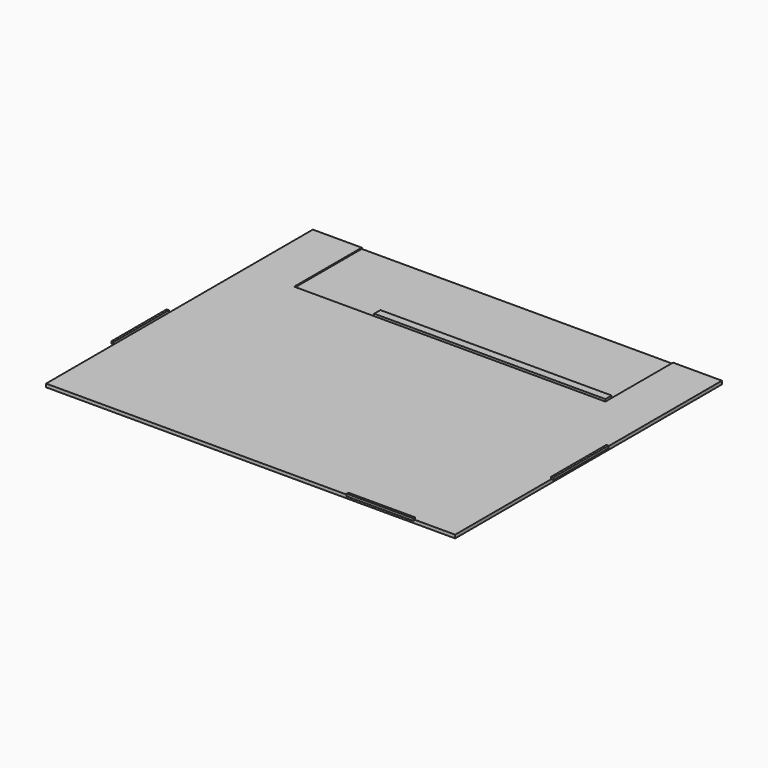
from build123d import *

# Parameters (mm, degrees)
F0_W     = 4673.6
F0_H     = 3810
F1_DEPTH = 25.4
F3_DEPTH = 12.7
F4_W     = 2641.6
F4_H     = 88.9
F5_DEPTH = 25.4
F6_W     = 25.4
F6_H     = 787.4
F7_DEPTH = 25.4
F8_W     = 25.4
F8_H     = 787.4
F8_W_2   = 762
F8_H_2   = 25.4
F9_DEPTH = 25.4


with BuildPart() as f1:
    # F0 (on Top) → F1 (new body)
    with BuildSketch(Plane.XY):
        with Locations((2336.8, 1905)):
            Rectangle(F0_W, F0_H)
    extrude(amount=F1_DEPTH)

    # F2 (on face) → F3 (join)
    with BuildSketch(Plane.XY.offset(25.4)):
        Polygon((558.8, 2844.8), (558.8, 3810), (0, 3810), (0, 0), (4673.6, 0), (4673.6, 3810), (4114.8, 3810), (4114.8, 2844.8), align=None)
    extrude(amount=F3_DEPTH)


with BuildPart() as f5:
    # F4 (on face) → F5 (new body)
    with BuildSketch(Plane.XY.offset(38.1)):
        with Locations((2794, 2889.25)):
            Rectangle(F4_W, F4_H)
    extrude(amount=F5_DEPTH)


with BuildPart() as f7:
    # F6 (on face) → F7 (new body)
    with BuildSketch(Plane.XY.offset(38.1)):
        with Locations((-12.7, 1358.9)):
            Rectangle(F6_W, F6_H)
    extrude(amount=F7_DEPTH)


with BuildPart() as f9:
    # F8 (on face) → F9 (new body)
    with BuildSketch(Plane.XY.offset(38.1)):
        with Locations((4686.3, 1765.3)):
            Rectangle(F8_W, F8_H)
        with Locations((3835.4, -12.7)):
            Rectangle(F8_W_2, F8_H_2)
    extrude(amount=F9_DEPTH)


solid = Compound([f1.part, f5.part, f7.part, f9.part])
